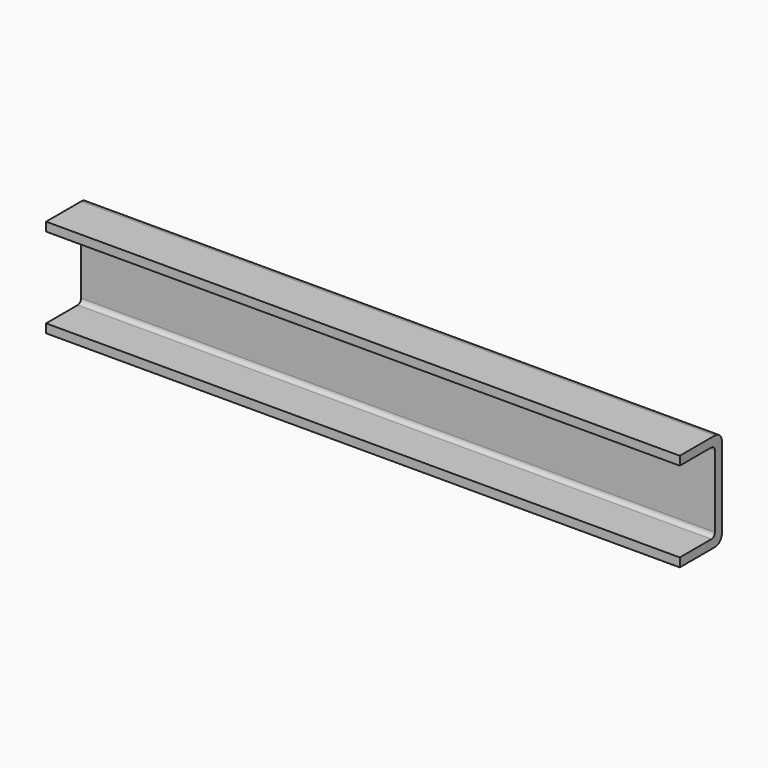
from build123d import *

# Parameters (mm, degrees)
F1_DEPTH = 361


with BuildPart() as f1:
    # F0 (on Right) → F1 (new body, symmetric)
    with BuildSketch(Plane.YZ):
        with BuildLine():
            Line((50, 0), (0, 0))
            Line((0, 0), (0, -10))
            Line((0, -10), (45, -10))
            ThreePointArc((45, -10), (48.535534, -11.464466), (50, -15))
            Line((50, -15), (50, -97))
            ThreePointArc((50, -97), (48.535534, -100.535534), (45, -102))
            Line((45, -102), (0, -102))
            Line((0, -102), (0, -112))
            Line((0, -112), (50, -112))
            ThreePointArc((50, -112), (57.071068, -109.071068), (60, -102))
            Line((60, -102), (60, -10))
            ThreePointArc((60, -10), (57.071068, -2.928932), (50, 0))
        make_face()
    extrude(amount=F1_DEPTH, both=True)


solid = f1.part
